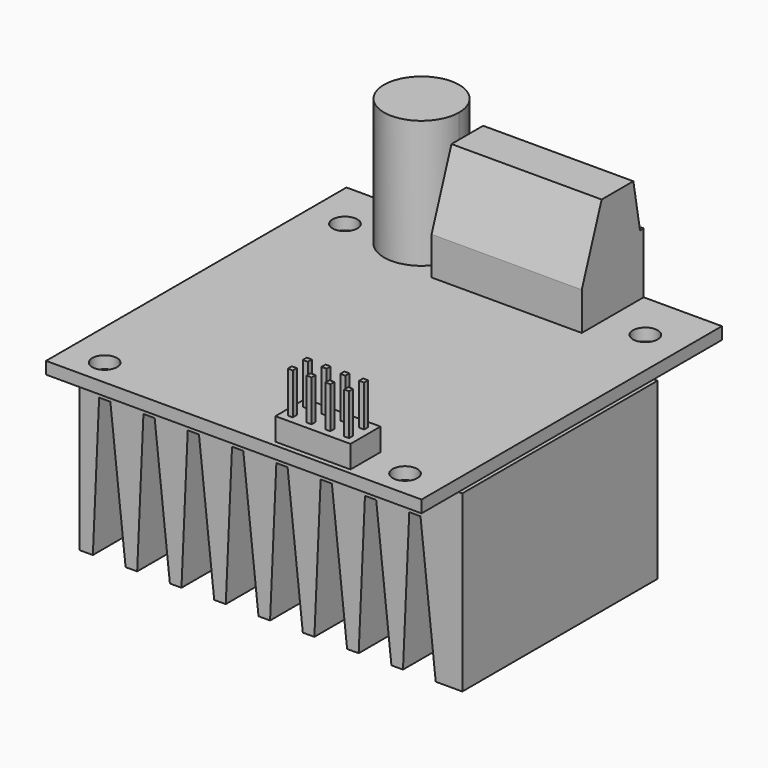
from build123d import *

# Parameters (mm, degrees)
F0_W          = 50
F0_H          = 50
F1_DEPTH      = 1.62
F3_DEPTH      = 17
F2_W          = 20
F2_H          = 10.3
F4_DEPTH      = 14.3
F2_W_2        = 2.5
F2_H_2        = 5
F2_W_3        = 0.67
F2_H_3        = 0.67
F5_DEPTH      = 3
F6_DEPTH      = 8.5
F7_D          = 3.3
F9_DEPTH      = 18.84
F9_DEPTH_BACK = 13.66
F11_DEPTH     = 20


with BuildPart() as f1:
    # F0 (on Top) → F1 (new body)
    with BuildSketch(Plane.XY):
        Rectangle(F0_W, F0_H)
    extrude(amount=F1_DEPTH)

    # F2 (on face) → F3 (join)
    with BuildSketch(Plane.XY.offset(1.62)):
        with BuildLine():
            ThreePointArc((-6, 20), (-7.464466, 23.535534), (-11, 25))
            ThreePointArc((-11, 25), (-14.535534, 16.464466), (-6, 20))
        make_face()
    extrude(amount=F3_DEPTH)

    # F2 (on face) → F4 (join)
    with BuildSketch(Plane.XY.offset(1.62)):
        with Locations((4.576447, 19.85)):
            Rectangle(F2_W, F2_H)
    extrude(amount=F4_DEPTH)

    # F2 (on face) → F5 (join)
    with BuildSketch(Plane.XY.offset(1.62)):
        with Locations((13.75, -21.83)):
            Rectangle(F2_W_2, F2_H_2)
        with Locations((13.75, -23.08)):
            Rectangle(F2_W_3, F2_H_3, mode=Mode.SUBTRACT)
        with Locations((13.75, -20.58)):
            Rectangle(F2_W_3, F2_H_3, mode=Mode.SUBTRACT)
        with Locations((11.25, -21.83)):
            Rectangle(F2_W_2, F2_H_2)
        with Locations((11.25, -23.08)):
            Rectangle(F2_W_3, F2_H_3, mode=Mode.SUBTRACT)
        with Locations((11.25, -20.58)):
            Rectangle(F2_W_3, F2_H_3, mode=Mode.SUBTRACT)
        with Locations((8.75, -21.83)):
            Rectangle(F2_W_2, F2_H_2)
        with Locations((8.75, -23.08)):
            Rectangle(F2_W_3, F2_H_3, mode=Mode.SUBTRACT)
        with Locations((8.75, -20.58)):
            Rectangle(F2_W_3, F2_H_3, mode=Mode.SUBTRACT)
        with Locations((6.25, -21.83)):
            Rectangle(F2_W_2, F2_H_2)
        with Locations((6.25, -23.08)):
            Rectangle(F2_W_3, F2_H_3, mode=Mode.SUBTRACT)
        with Locations((6.25, -20.58)):
            Rectangle(F2_W_3, F2_H_3, mode=Mode.SUBTRACT)
    extrude(amount=F5_DEPTH)

    # F2 (on face) → F6 (join)
    with BuildSketch(Plane.XY.offset(1.62)):
        with Locations((6.25, -20.58)):
            Rectangle(F2_W_3, F2_H_3)
        with Locations((6.25, -23.08)):
            Rectangle(F2_W_3, F2_H_3)
        with Locations((8.75, -23.08)):
            Rectangle(F2_W_3, F2_H_3)
        with Locations((8.75, -20.58)):
            Rectangle(F2_W_3, F2_H_3)
        with Locations((11.25, -20.58)):
            Rectangle(F2_W_3, F2_H_3)
        with Locations((11.25, -23.08)):
            Rectangle(F2_W_3, F2_H_3)
        with Locations((13.75, -23.08)):
            Rectangle(F2_W_3, F2_H_3)
        with Locations((13.75, -20.58)):
            Rectangle(F2_W_3, F2_H_3)
    extrude(amount=F6_DEPTH)

    # F7 (through all)
    with Locations(Plane.XY.offset(1.62)):
        with Locations((-20, 18.5), (-20, -21.5), (20, -21.5), (20, 18.5)):
            Hole(F7_D / 2)

    # F8 (on Front) → F9 (join, two sides)
    with BuildSketch(Plane.XZ) as f9_sk:
        Polygon((25.5, -23.23), (25.5, 0), (-25.5, 0), (-25.5, -23.23), (-23.699168, -23.23), (-22.864854, -4.496027), (-21.367718, -4.496027), (-19.342193, -23.23), (-17.799168, -23.23), (-16.964854, -4.496027), (-15.467718, -4.496027), (-13.442193, -23.23), (-11.899168, -23.23), (-11.064854, -4.496027), (-9.567718, -4.496027), (-7.542193, -23.23), (-5.999168, -23.23), (-5.164854, -4.496027), (-3.667718, -4.496027), (-1.642193, -23.23), (-0.099168, -23.23), (0.735146, -4.496027), (2.232282, -4.496027), (4.257807, -23.23), (5.800832, -23.23), (6.635146, -4.496027), (8.132282, -4.496027), (10.157807, -23.23), (11.700832, -23.23), (12.535146, -4.496027), (14.032282, -4.496027), (16.057807, -23.23), (17.600832, -23.23), (18.435146, -4.496027), (19.932282, -4.496027), (21.957807, -23.23), align=None)
    extrude(amount=F9_DEPTH)
    extrude(f9_sk.sketch, amount=-F9_DEPTH_BACK)

    # F10 (on face) → F11 (cut)
    with BuildSketch(Plane.YZ.offset(14.576447)):
        Polygon((14.7, 15.92), (14.7, 6.684894), (18.009929, 15.92), align=None)
        Polygon((25, 15.92), (23.284927, 15.92), (24.399363, 9.693871), (25, 9.693871), align=None)
    extrude(amount=-F11_DEPTH, mode=Mode.SUBTRACT)


solid = f1.part
